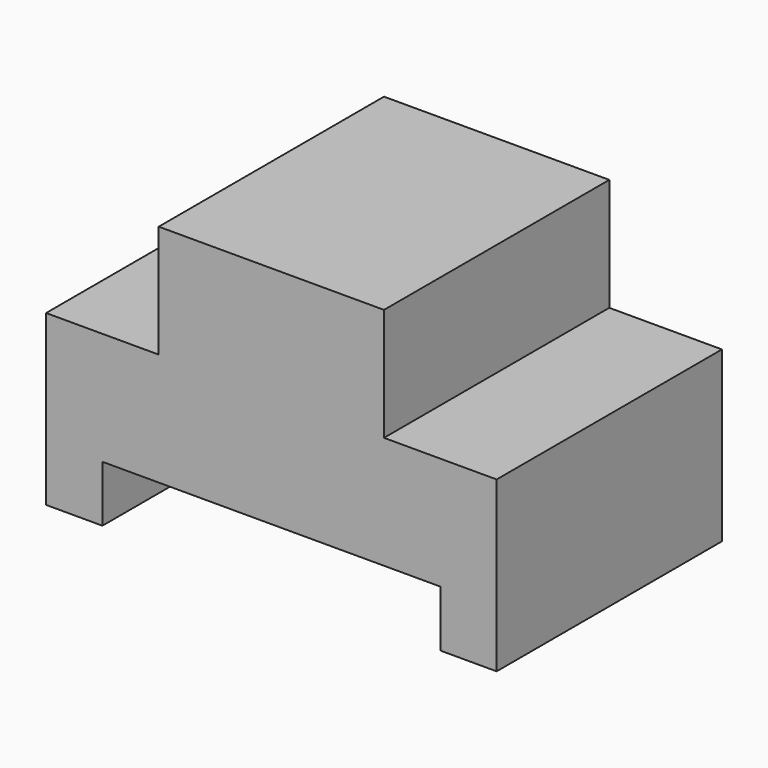
from build123d import *

# Parameters (mm, degrees)
F0_W     = 50.8
F0_H     = 31.75
F1_DEPTH = 31.75
F2_W     = 12.7
F2_H     = 12.7
F2_W_2   = 38.1
F2_H_2   = 6.35
F3_DEPTH = 50.8


with BuildPart() as f1:
    # F0 (on Front) → F1 (new body)
    with BuildSketch(Plane.XZ):
        with Locations((-1.576552, 4.845285)):
            Rectangle(F0_W, F0_H)
    extrude(amount=F1_DEPTH)

    # F2 (on face) → F3 (cut)
    with BuildSketch(Plane.XZ.offset(31.75)):
        with Locations((-20.626552, 14.370285)):
            Rectangle(F2_W, F2_H)
        with Locations((17.473448, 14.370285)):
            Rectangle(F2_W, F2_H)
        with Locations((-1.576552, -7.854715)):
            Rectangle(F2_W_2, F2_H_2)
    extrude(amount=-F3_DEPTH, mode=Mode.SUBTRACT)


solid = f1.part
